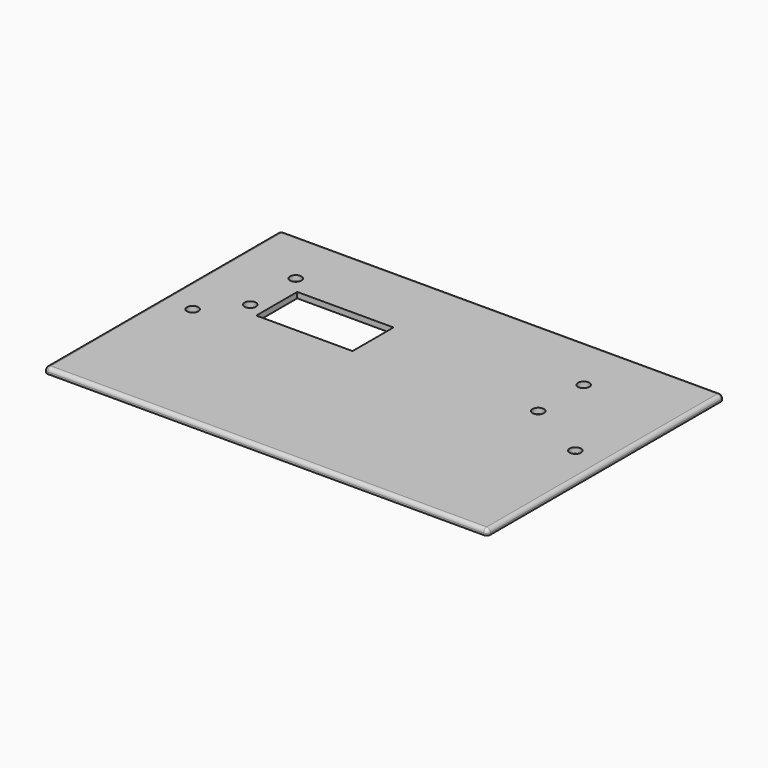
from build123d import *

# Parameters (mm, degrees)
SKETCH_W    = 117
SKETCH_H    = 78
SKETCH_R    = 1.5
SKETCH_W_2  = 25.4
SKETCH_H_2  = 13.5
PAD_DEPTH   = 1.5
FILLET_R    = 1
FILLET001_R = 1
FILLET002_R = 1
FILLET003_R = 1


with BuildPart() as part:
    # Sketch → Pad (new body)
    with BuildSketch(Plane.XY):
        Rectangle(SKETCH_W, SKETCH_H)
        with Locations((-50.5, 0)):
            Circle(SKETCH_R, mode=Mode.SUBTRACT)
        with Locations((50.5, 0)):
            Circle(SKETCH_R, mode=Mode.SUBTRACT)
        with Locations((-42.5, 24)):
            Circle(SKETCH_R, mode=Mode.SUBTRACT)
        with Locations((-42.5, 9)):
            Circle(SKETCH_R, mode=Mode.SUBTRACT)
        with Locations((33.5, 24)):
            Circle(SKETCH_R, mode=Mode.SUBTRACT)
        with Locations((33.5, 9)):
            Circle(SKETCH_R, mode=Mode.SUBTRACT)
        with Locations((-25.8, 12.75)):
            Rectangle(SKETCH_W_2, SKETCH_H_2, mode=Mode.SUBTRACT)
    extrude(amount=PAD_DEPTH)

    # Fillet
    fillet_edges = [part.edges().sort_by_distance(p)[0] for p in [
        (0, 39, 1.5),
    ]]
    fillet(fillet_edges, radius=FILLET_R)

    # Fillet001
    fillet001_edges = [part.edges().sort_by_distance(p)[0] for p in [
        (-58.5, -0.5, 1.5),
    ]]
    fillet(fillet001_edges, radius=FILLET001_R)

    # Fillet002
    fillet002_edges = [part.edges().sort_by_distance(p)[0] for p in [
        (0.5, -39, 1.5),
    ]]
    fillet(fillet002_edges, radius=FILLET002_R)

    # Fillet003
    fillet003_edges = [part.edges().sort_by_distance(p)[0] for p in [
        (58.5, 0, 1.5),
    ]]
    fillet(fillet003_edges, radius=FILLET003_R)


solid = part.part
